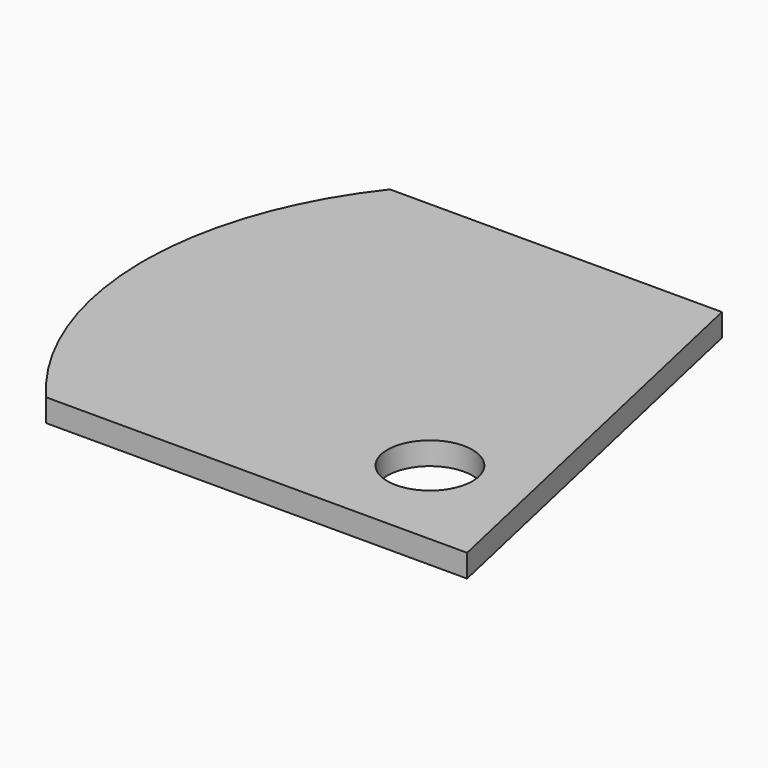
from build123d import *

# Parameters (mm, degrees)
F0_W     = 40
F0_H     = 35
F1_DEPTH = 1.8
F3_DEPTH = 1.801
F5_DEPTH = 1.801
F6_R     = 3.365697
F7_DEPTH = 1.801


with BuildPart() as f1:
    # F0 (on Top) → F1 (new body)
    with BuildSketch(Plane.XY):
        Rectangle(F0_W, F0_H)
    extrude(amount=F1_DEPTH)

    # F2 (on face) → F3 (cut, through all)
    with BuildSketch(Plane.XY.offset(1.8)):
        Polygon((20, 17.5), (12.16623, 17.5), (20, -17.5), align=None)
    extrude(amount=-F3_DEPTH, mode=Mode.SUBTRACT)

    # F4 (on face) → F5 (cut, through all)
    with BuildSketch(Plane.XY.offset(1.8)):
        with BuildLine():
            ThreePointArc((-13.312635, -17.5), (-18.192213, -9.33692), (-20, 0))
            Line((-20, 0), (-20, -17.5))
            Line((-20, -17.5), (-13.312635, -17.5))
        make_face()
        with BuildLine():
            ThreePointArc((-20, 0.962044), (-18.408216, 9.713903), (-14.106414, 17.5))
            Line((-14.106414, 17.5), (-20, 17.5))
            Line((-20, 17.5), (-20, 0.962044))
        make_face()
    extrude(amount=-F5_DEPTH, mode=Mode.SUBTRACT)

    # F6 (on face) → F7 (cut, through all)
    with BuildSketch(Plane.XY.offset(1.8)):
        with Locations((10.903767, -9.809669)):
            Circle(F6_R)
    extrude(amount=-F7_DEPTH, mode=Mode.SUBTRACT)


solid = f1.part
